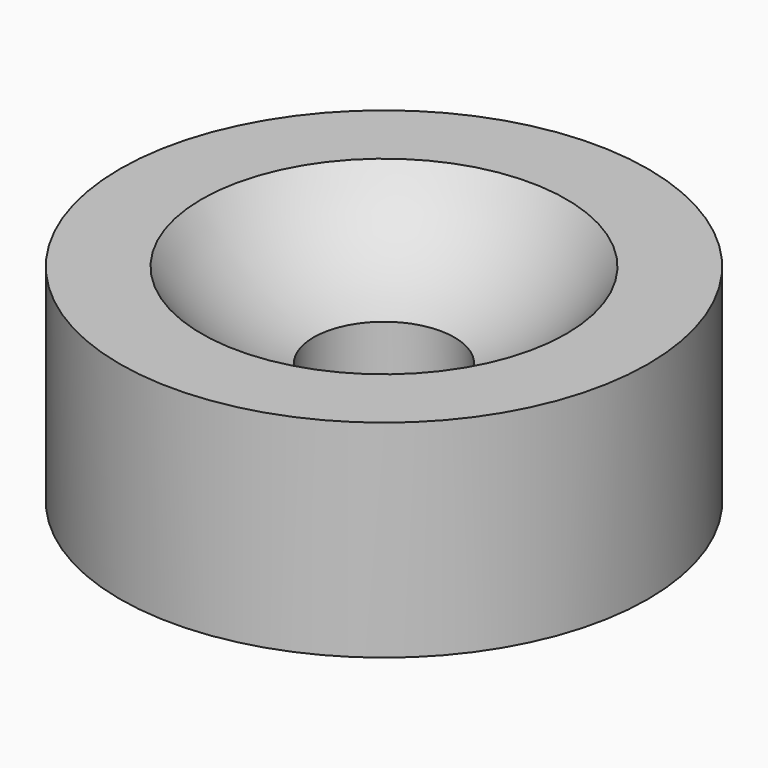
from build123d import *

# Parameters (mm, degrees)
F0_R     = 6
F1_DEPTH = 4.7
F2_R     = 1.6
F3_DEPTH = 25


with BuildPart() as f1:
    # F0 (on Top) → F1 (new body)
    with BuildSketch(Plane.XY):
        Circle(F0_R)
    extrude(amount=F1_DEPTH)

    # F2 (on face) → F3 (cut)
    with BuildSketch(Plane.XY.offset(4.7)):
        Circle(F2_R)
    extrude(amount=-F3_DEPTH, mode=Mode.SUBTRACT)

    # F4 (on Front) → F5 (revolve, cut)
    with BuildSketch(Plane.XZ):
        with BuildLine():
            Line((0, 2.5), (0, 12.5))
            ThreePointArc((0, 12.5), (-5, 7.5), (0, 2.5))
        make_face()
    revolve(axis=Axis((0, 0, 7.5), (0, 0, -1)), mode=Mode.SUBTRACT)


solid = f1.part
